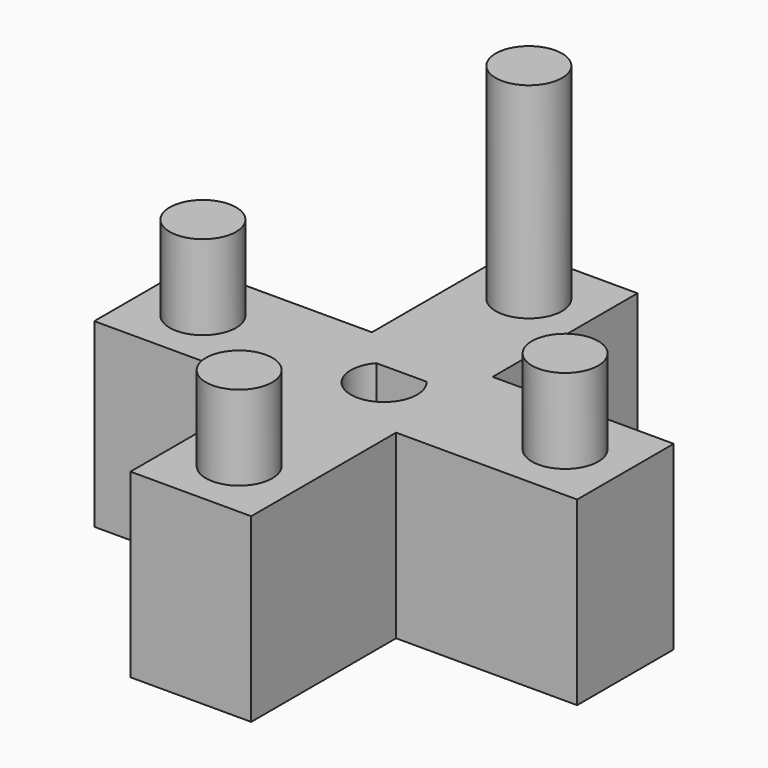
from build123d import *

# Parameters (mm, degrees)
F0_R     = 2.75
F1_DEPTH = 15
F2_R     = 2.75
F3_DEPTH = 22
F4_R     = 2.75
F5_DEPTH = 10


with BuildPart() as f1:
    # F0 (on Top) → F1 (new body)
    with BuildSketch(Plane.XY):
        Polygon((20, -5), (20, 5), (5, 5), (5, 20), (-5, 20), (-5, 5), (-20, 5), (-20, -5), (-5, -5), (-5, -20), (5, -20), (5, -5), align=None)
        with Locations((0, -15)):
            Circle(F0_R, mode=Mode.SUBTRACT)
        with BuildLine():
            ThreePointArc((2.079062, 1.8), (0, -2.75), (-2.079062, 1.8))
            Line((-2.079062, 1.8), (2.079062, 1.8))
        make_face(mode=Mode.SUBTRACT)
        with Locations((-15, 0)):
            Circle(F0_R, mode=Mode.SUBTRACT)
        with Locations((15, 0)):
            Circle(F0_R, mode=Mode.SUBTRACT)
        with Locations((0, 15)):
            Circle(F0_R, mode=Mode.SUBTRACT)
    extrude(amount=F1_DEPTH)

    # F2 (on Top) → F3 (join)
    with BuildSketch(Plane.XY):
        with Locations((0, 15)):
            Circle(F2_R)
        with Locations((15, 0)):
            Circle(F2_R)
        with Locations((0, -15)):
            Circle(F2_R)
        with Locations((-15, 0)):
            Circle(F2_R)
    extrude(amount=F3_DEPTH)

    # F4 (on face) → F5 (join)
    with BuildSketch(Plane.XY.offset(22)):
        with Locations((0, 15)):
            Circle(F4_R)
    extrude(amount=F5_DEPTH)


solid = f1.part
